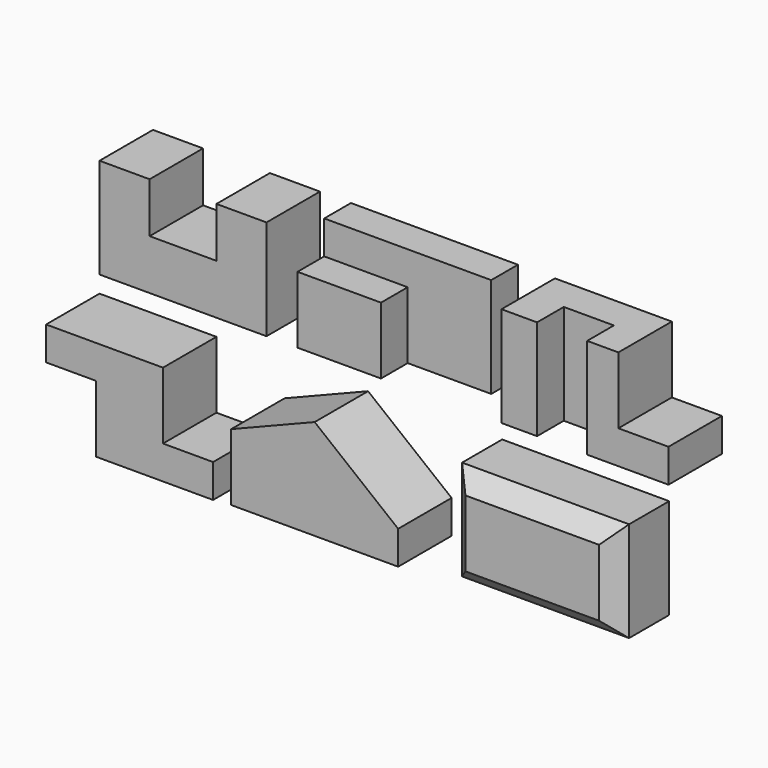
from build123d import *

# Parameters (mm, degrees)
F1_DEPTH  = 101.6
F3_DEPTH  = 25.4
F4_DEPTH  = 127
F5_W      = 127
F5_H      = 50.8
F6_DEPTH  = 50.8
F8_DEPTH  = 101.6
F9_W      = 76.2
F9_H      = 50.8
F10_DEPTH = 152.4
F12_DEPTH = 101.6
F13_W     = 76.2
F13_H     = 50.8
F14_DEPTH = 152.4
F16_DEPTH = 101.6
F17_W     = 254
F17_H     = 152.4
F18_DEPTH = 101.6
F19_SIZE  = 25.4


with BuildPart() as f1:
    # F0 (on Front) → F1 (new body)
    with BuildSketch(Plane.XZ):
        Polygon((0, 152.4), (0, 0), (254, 0), (254, 152.4), (177.8, 152.4), (177.8, 76.2), (76.2, 76.2), (76.2, 152.4), align=None)
    extrude(amount=-F1_DEPTH)


with BuildPart() as f3:
    # F2 (on Top) → F3 (new body)
    with BuildSketch(Plane.XY):
        Polygon((301.103534, 101.6), (301.103534, 0), (428.103534, 0), (428.103534, 50.8), (555.103534, 50.8), (555.103534, 101.6), align=None)
        Polygon((301.103534, 101.6), (301.103534, 0), (428.103534, 0), (428.103534, 50.8), (555.103534, 50.8), (555.103534, 101.6), align=None)
    extrude(amount=F3_DEPTH)

    # F3_face (on face) → F4 (join)
    with BuildSketch(Plane(origin=(406.936867, 59.266667, 25.4), x_dir=(1, 0, 0), z_dir=(0, 0, 1))):
        Polygon((-105.833333, 42.333333), (-105.833333, -59.266667), (21.166667, -59.266667), (21.166667, -8.466667), (148.166667, -8.466667), (148.166667, 42.333333), align=None)
    extrude(amount=F4_DEPTH)

    # F5 (on face) → F6 (cut)
    with BuildSketch(Plane.XZ):
        with Locations((364.603534, 127)):
            Rectangle(F5_W, F5_H)
    extrude(amount=-F6_DEPTH, mode=Mode.SUBTRACT)


with BuildPart() as f8:
    # F7 (on Front) → F8 (new body)
    with BuildSketch(Plane.XZ):
        Polygon((611.347409, 152.4), (611.347409, 0), (865.347409, 0), (865.347409, 50.8), (789.147409, 50.8), (789.147409, 152.4), align=None)
    extrude(amount=-F8_DEPTH)

    # F9 (on face) → F10 (join)
    with BuildSketch(Plane.XY.offset(152.4)):
        with Locations((700.247409, 25.4)):
            Rectangle(F9_W, F9_H)
    extrude(amount=-F10_DEPTH)

    # F13 (on face) → F14 (cut)
    with BuildSketch(Plane.XY.offset(152.4)):
        with Locations((703.567203, 25.4)):
            Rectangle(F13_W, F13_H)
    extrude(amount=-F14_DEPTH, mode=Mode.SUBTRACT)


with BuildPart() as f12:
    # F11 (on Front) → F12 (new body)
    with BuildSketch(Plane.XZ):
        Polygon((177.8, -25.532638), (0, -25.532638), (0, -76.332638), (76.2, -76.332638), (76.2, -177.932638), (254, -177.932638), (254, -127.132638), (177.8, -127.132638), align=None)
    extrude(amount=F12_DEPTH)


with BuildPart() as f16:
    # F15 (on Front) → F16 (new body)
    with BuildSketch(Plane.XZ):
        Polygon((281.474884, -74.15426), (281.474884, -175.75426), (535.474884, -175.75426), (535.474884, -124.95426), (408.474884, -23.35426), align=None)
    extrude(amount=F16_DEPTH)


with BuildPart() as f18:
    # F17 (on Front) → F18 (new body)
    with BuildSketch(Plane.XZ):
        with Locations((739.408397, -97.865011)):
            Rectangle(F17_W, F17_H)
    extrude(amount=F18_DEPTH)

    # F19
    f19_edges = [f18.edges().sort_by_distance(p)[0] for p in [
        (866.408397, -101.6, -97.865011),
        (739.408397, -101.6, -21.665011),
        (612.408397, -101.6, -97.865011),
        (739.408397, -101.6, -174.065011),
    ]]
    chamfer(f19_edges, length=F19_SIZE)


solid = Compound([f1.part, f3.part, f8.part, f12.part, f16.part, f18.part])
